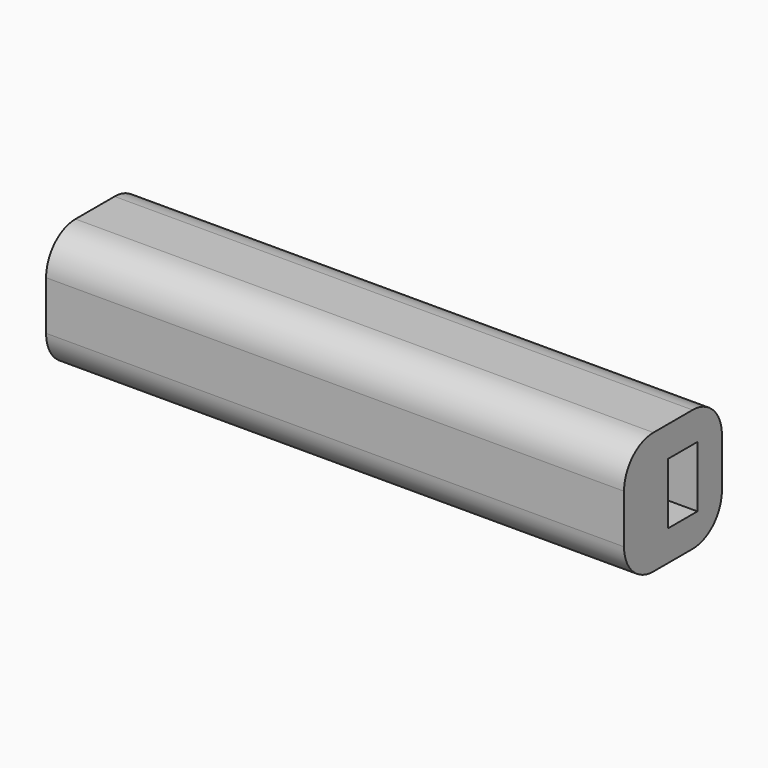
from build123d import *

# Parameters (mm, degrees)
F0_W     = 120
F0_H     = 25.4
F1_DEPTH = 25.4
F2_T     = -6.35
F3_W     = 5.079999955
F3_H     = 12.7
F4_DEPTH = 6.35
F5_DEPTH = 100.94976
F6_R     = 7.62


with BuildPart() as f1:
    # F0 (on Top) → F1 (new body)
    with BuildSketch(Plane.XY):
        with Locations((60, 12.7)):
            Rectangle(F0_W, F0_H)
    extrude(amount=F1_DEPTH)

    # F2
    f2_openings = [f1.faces().sort_by_distance(p)[0] for p in [
        (120, 12.7, 12.7),
    ]]
    offset(amount=F2_T, openings=f2_openings)

    # F3 (on face) → F4 (join)
    with BuildSketch(Plane.YZ.offset(120)):
        with Locations((8.8899999775, 12.7)):
            Rectangle(F3_W, F3_H)
    extrude(amount=-F4_DEPTH)

    # F5 (add): a face of the model
    f5_faces = [f1.faces().sort_by_distance(p)[0] for p in [
        (6.35, 12.7, 12.7),
    ]]
    extrude(f5_faces, amount=F5_DEPTH)

    # F6
    f6_edges = [f1.edges().sort_by_distance(p)[0] for p in [
        (60, 25.4, 25.4),
        (60, 0, 25.4),
        (60, 0, 0),
        (60, 25.4, 0),
    ]]
    fillet(f6_edges, radius=F6_R)


solid = f1.part
